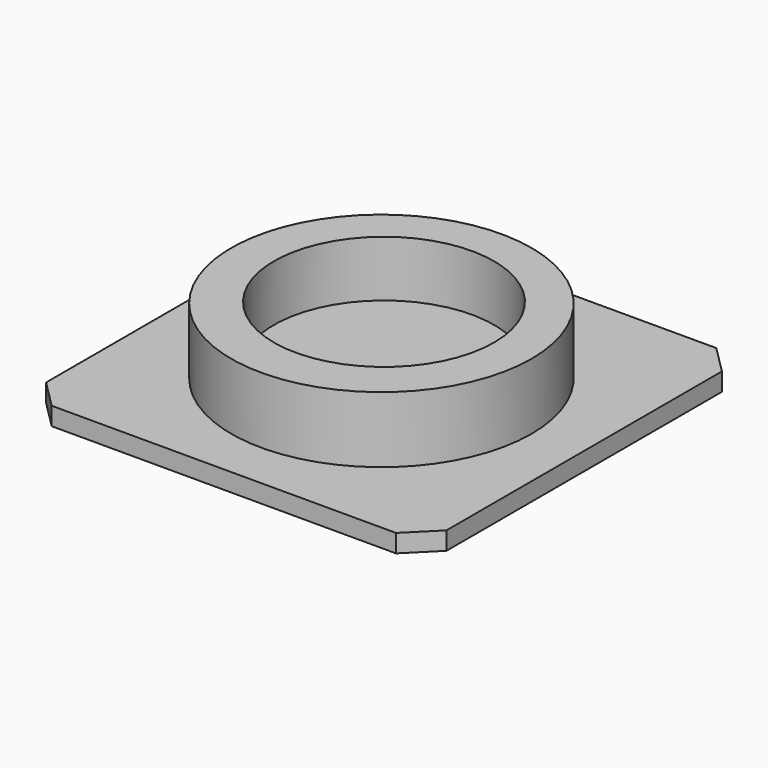
from build123d import *

# Parameters (mm, degrees)
F1_DEPTH = 45
F2_R     = 375
F3_DEPTH = 25
F4_R     = 375
F4_R_2   = 275
F5_DEPTH = 140


with BuildPart() as f1:
    # F0 (on Top) → F1 (new body)
    with BuildSketch(Plane.XY):
        Polygon((500, 430), (430, 500), (-430, 500), (-500, 430), (-500, -430), (-430, -500), (430, -500), (500, -430), align=None)
    extrude(amount=F1_DEPTH)

    # F2 (on face) → F3 (join)
    with BuildSketch(Plane.XY.offset(45)):
        with Locations((0, -8.12363)):
            Circle(F2_R)
    extrude(amount=F3_DEPTH)

    # F4 (on face) → F5 (join)
    with BuildSketch(Plane.XY.offset(70)):
        with Locations((0, -8.12363)):
            Circle(F4_R)
        Circle(F4_R_2, mode=Mode.SUBTRACT)
    extrude(amount=F5_DEPTH)


solid = f1.part
